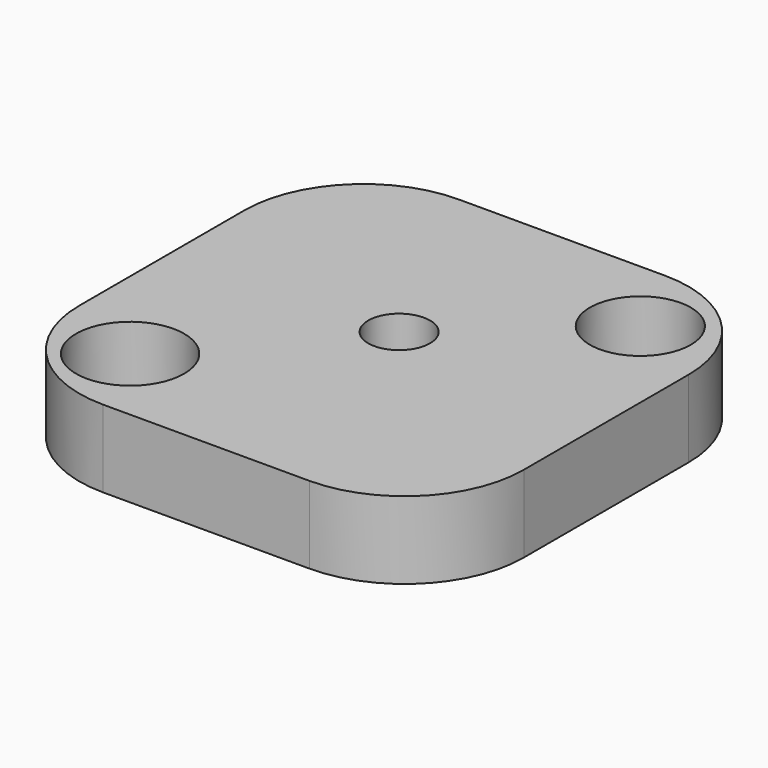
from build123d import *

# Parameters (mm, degrees)
SKETCH_R     = 12
SKETCH_R_2   = 21
SKETCH_R_3   = 19.584537
PAD_DEPTH    = 30
PAD001_DEPTH = 30


with BuildPart() as part:
    # Sketch → Pad (new body)
    with BuildSketch(Plane.XY):
        with BuildLine():
            Line((-35.584206, -63.111127), (44.415794, -63.111127))
            ThreePointArc((44.415794, -63.111127), (77.13309, -49.55918), (90.685038, -16.841884))
            Line((90.685038, -16.841884), (90.685038, 63.158116))
            ThreePointArc((90.685038, 63.158116), (77.13309, 95.875412), (44.415794, 109.427359))
            Line((44.415794, 109.427359), (-35.584206, 109.427359))
            ThreePointArc((-35.584206, 109.427359), (-68.301501, 95.875412), (-81.853449, 63.158116))
            Line((-81.853449, 63.158116), (-81.853449, -16.841884))
            ThreePointArc((-81.853449, -16.841884), (-68.301501, -49.55918), (-35.584206, -63.111127))
        make_face()
        with Locations((4.62833, 30.241158)):
            Circle(SKETCH_R, mode=Mode.SUBTRACT)
        with Locations((-50.106209, -31.898642)):
            Circle(SKETCH_R_2, mode=Mode.SUBTRACT)
        with Locations((59.362869, 78.858307)):
            Circle(SKETCH_R_3, mode=Mode.SUBTRACT)
    extrude(amount=PAD_DEPTH)

    # Sketch → Pad001 (join)
    with BuildSketch(Plane.XY):
        with BuildLine():
            Line((-35.584206, -63.111127), (44.415794, -63.111127))
            ThreePointArc((44.415794, -63.111127), (77.13309, -49.55918), (90.685038, -16.841884))
            Line((90.685038, -16.841884), (90.685038, 63.158116))
            ThreePointArc((90.685038, 63.158116), (77.13309, 95.875412), (44.415794, 109.427359))
            Line((44.415794, 109.427359), (-35.584206, 109.427359))
            ThreePointArc((-35.584206, 109.427359), (-68.301501, 95.875412), (-81.853449, 63.158116))
            Line((-81.853449, 63.158116), (-81.853449, -16.841884))
            ThreePointArc((-81.853449, -16.841884), (-68.301501, -49.55918), (-35.584206, -63.111127))
        make_face()
        with Locations((4.62833, 30.241158)):
            Circle(SKETCH_R, mode=Mode.SUBTRACT)
        with Locations((-50.106209, -31.898642)):
            Circle(SKETCH_R_2, mode=Mode.SUBTRACT)
        with Locations((59.362869, 78.858307)):
            Circle(SKETCH_R_3, mode=Mode.SUBTRACT)
    extrude(amount=PAD001_DEPTH)


solid = part.part
